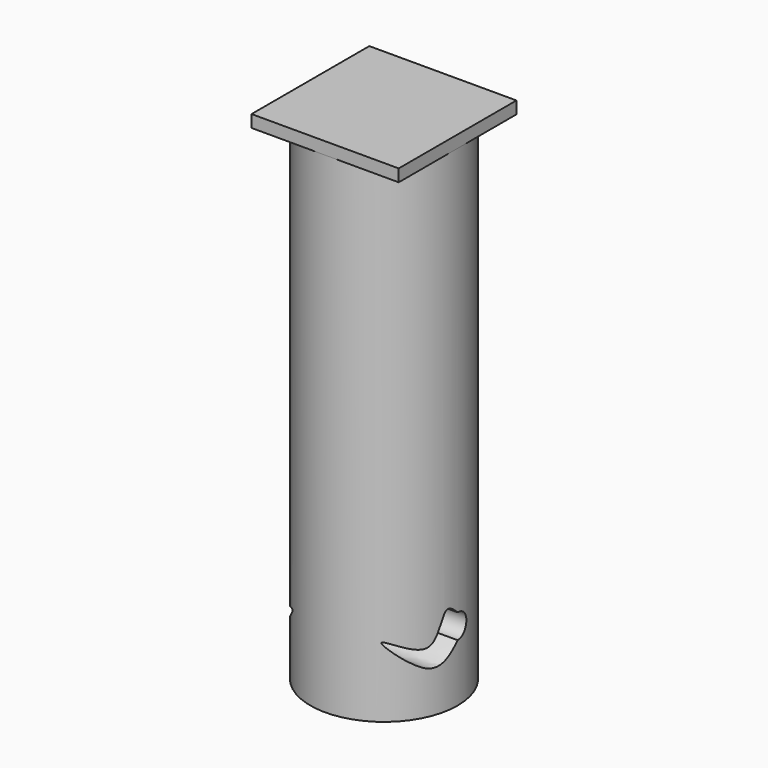
from build123d import *

# Parameters (mm, degrees)
F0_R     = 38.1
F1_DEPTH = 254
F2_W     = 76.2
F2_H     = 76.2
F3_DEPTH = 6.35
F6_DEPTH = 76.201


with BuildPart() as f1:
    # F0 (on Top) → F1 (new body)
    with BuildSketch(Plane.XY):
        Circle(F0_R)
    extrude(amount=F1_DEPTH)

    # F2 (on face) → F3 (join)
    with BuildSketch(Plane.XY.offset(254)):
        Rectangle(F2_W, F2_H)
    extrude(amount=F3_DEPTH)

    # F5 (on offset) → F6 (cut, through all)
    with BuildSketch(Plane.YZ.offset(38.1)):
        with BuildLine():
            add(Edge.make_bspline(
                [(0, 29.820270294), (-4.6476458963, 24.8863690504), (-14.2984668544, 14.6411398336), (-39.1702712633, 44.7075995996), (-11.5658950542, 22.9053639125), (-8.594327492, 50.7314877801), (-2.4507022089, 44.8617273597), (0, 42.520270294)],
                knots=[0, 0, 0, 0, 0.2150067042, 0.4464606928, 0.6479987681, 0.8595861308, 1, 1, 1, 1], degree=3))
            ThreePointArc((0, 29.820270294), (6.35, 36.170270294), (0, 42.520270294))
        make_face()
    extrude(amount=-F6_DEPTH, mode=Mode.SUBTRACT)


solid = f1.part
